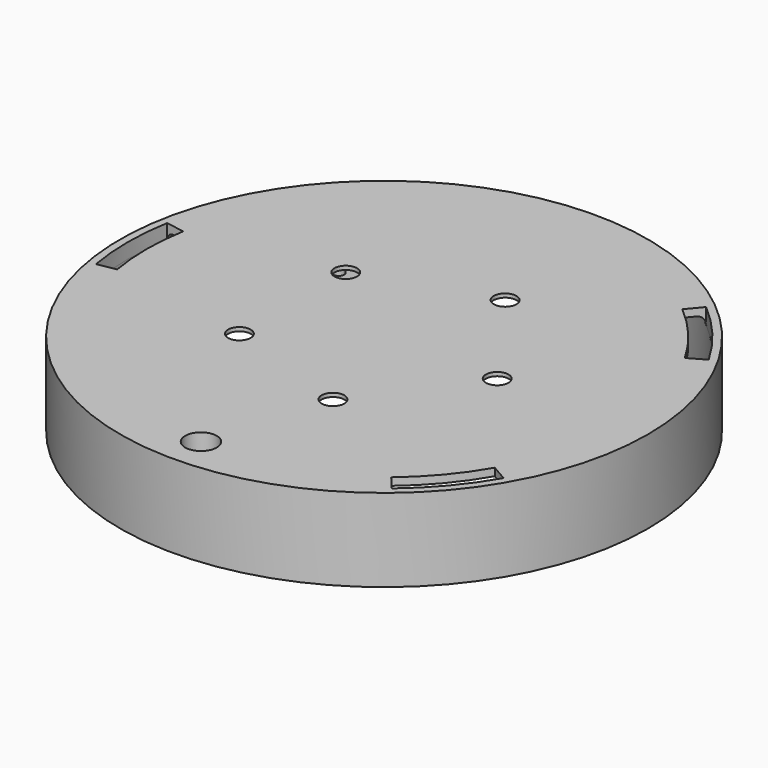
from build123d import *

# Parameters (mm, degrees)
SKETCH_R        = 70
PAD_DEPTH       = 2
SKETCH001_R     = 3
POCKET_DEPTH    = 2.001
SKETCH011_R     = 4.5
POCKET002_DEPTH = 1
SKETCH012_R     = 70
SKETCH012_R_2   = 68
PAD005_DEPTH    = 20
SKETCH030_R     = 3
PAD014_DEPTH    = 4
SKETCH031_R     = 1.4
PAD015_DEPTH    = 6
SKETCH032_R     = 5
PAD016_DEPTH    = 20
SKETCH036_W     = 6.511344
SKETCH036_H     = 3
POCKET005_DEPTH = 5
FILLET_R        = 2
CHAMFER_SIZE    = 0.7
CHAMFER001_SIZE = 1
SKETCH037_R     = 3.95
SKETCH038_R     = 4.2
POCKET006_DEPTH = 5


with BuildPart() as part:
    # Sketch → Pad (new body)
    with BuildSketch(Plane.XY):
        Circle(SKETCH_R)
    extrude(amount=PAD_DEPTH)

    # Sketch001 (on Face3 of Pad) → Pocket (cut, through all)
    with BuildSketch(Plane.XY.offset(2)):
        with Locations((9.27051, 28.531695)):
            Circle(SKETCH001_R)
        with Locations((30, 0)):
            Circle(SKETCH001_R)
        with Locations((9.27051, -28.531695)):
            Circle(SKETCH001_R)
        with Locations((-24.27051, -17.633558)):
            Circle(SKETCH001_R)
        with Locations((-24.27051, 17.633558)):
            Circle(SKETCH001_R)
    extrude(amount=-POCKET_DEPTH, mode=Mode.SUBTRACT)

    # Sketch011 (on Face2 of Pocket) → Pocket002 (cut)
    with BuildSketch(Plane(origin=(0, 0, 0), x_dir=(1, 0, 0), z_dir=(0, 0, -1))):
        with Locations((30, 0)):
            Circle(SKETCH011_R)
        with Locations((9.27051, 28.531695)):
            Circle(SKETCH011_R)
        with Locations((-24.27051, 17.633558)):
            Circle(SKETCH011_R)
        with Locations((-24.27051, -17.633558)):
            Circle(SKETCH011_R)
        with Locations((9.27051, -28.531695)):
            Circle(SKETCH011_R)
    extrude(amount=-POCKET002_DEPTH, mode=Mode.SUBTRACT)

    # Sketch012 (on Face2 of Pocket002) → Pad005 (join)
    with BuildSketch(Plane(origin=(0, 0, 0), x_dir=(1, 0, 0), z_dir=(0, 0, -1))):
        Circle(SKETCH012_R)
        Circle(SKETCH012_R_2, mode=Mode.SUBTRACT)
    extrude(amount=PAD005_DEPTH)

    # Sketch030 → Pad014 (join)
    with BuildSketch(Plane(origin=(0, 0, 1), x_dir=(1, 0, 0), z_dir=(0, 0, -1))):
        with Locations((15.031422, -10.494461)):
            Circle(SKETCH030_R)
        with Locations((-38.454479, -33.066456)):
            Circle(SKETCH030_R)
        with Locations((34.678905, -51.027237)):
            Circle(SKETCH030_R)
        with Locations((4.56173, -60.030899)):
            Circle(SKETCH030_R)
        with Locations((-21.692631, -54.611519)):
            Circle(SKETCH030_R)
    extrude(amount=PAD014_DEPTH)

    # Sketch031 (on Face30 of Pad014) → Pad015 (join)
    with BuildSketch(Plane(origin=(0, 0, -3), x_dir=(1, 0, 0), z_dir=(0, 0, -1))):
        with Locations((-38.454479, -33.066456)):
            Circle(SKETCH031_R)
        with Locations((-21.692631, -54.611519)):
            Circle(SKETCH031_R)
        with Locations((4.56173, -60.030899)):
            Circle(SKETCH031_R)
        with Locations((34.678905, -51.027237)):
            Circle(SKETCH031_R)
        with Locations((15.031422, -10.494461)):
            Circle(SKETCH031_R)
    extrude(amount=PAD015_DEPTH)

    # Sketch032 → Pad016 (join)
    with BuildSketch(Plane(origin=(0, 0, 0), x_dir=(1, 0, 0), z_dir=(0, 0, -1))):
        with Locations((-0.238248, 60.397495)):
            Circle(SKETCH032_R)
    extrude(amount=PAD016_DEPTH)

    # Sketch036 → Pocket005 (cut)
    with BuildSketch(Plane(origin=(-1, -55, 0), x_dir=(-1, 0, 0), z_dir=(0, 1, 0))):
        with Locations((0, -18.5)):
            Rectangle(SKETCH036_W, SKETCH036_H)
    extrude(amount=-POCKET005_DEPTH, mode=Mode.SUBTRACT)

    # Fillet
    fillet_edges = [part.edges().sort_by_distance(p)[0] for p in [
        (-68, 0, 0),
    ]]
    fillet(fillet_edges, radius=FILLET_R)

    # Chamfer
    chamfer_edges = [part.edges().sort_by_distance(p)[0] for p in [
        (25.5, 0, 0),
        (4.77051, -28.531695, 0),
        (-28.77051, 17.633558, 0),
        (4.77051, 28.531695, 0),
        (-28.77051, -17.633558, 0),
    ]]
    chamfer(chamfer_edges, length=CHAMFER_SIZE)

    # Chamfer001
    chamfer001_edges = [part.edges().sort_by_distance(p)[0] for p in [
        (13.631422, 10.494461, -3),
        (-23.092631, 54.611519, -3),
        (-39.854479, 33.066456, -3),
        (3.16173, 60.030899, -3),
        (33.278905, 51.027237, -3),
    ]]
    chamfer(chamfer001_edges, length=CHAMFER001_SIZE)

    # Sketch037 (on Face24 of Chamfer001) → SubtractiveLoft section 0
    with BuildSketch(Plane(origin=(0, 0, -18), x_dir=(1, 0, 0), z_dir=(0, 0, -1))):
        with Locations((-0.238248, 60.397495)):
            Circle(SKETCH037_R)
    # Sketch038 (on Face24 of Chamfer001) → SubtractiveLoft section 1
    with BuildSketch(Plane(origin=(0, 0, 2), x_dir=(1, 0, 0), z_dir=(0, 0, -1))):
        with Locations((-0.238248, 60.397495)):
            Circle(SKETCH038_R)
    loft(mode=Mode.SUBTRACT)

    # Sketch039 (on Face51 of SubtractiveLoft) → Pocket006 (cut)
    with BuildSketch(Plane.XY.offset(2)):
        with BuildLine():
            ThreePointArc((-66.966927, 11.808076), (-68, 0), (-66.966927, -11.808076))
            Line((-66.966927, -11.808076), (-62.042888, -10.939835))
            ThreePointArc((-62.042888, 10.939835), (-63, 0), (-62.042888, -10.939835))
            Line((-66.966927, 11.808076), (-62.042888, 10.939835))
        make_face()
        with BuildLine():
            ThreePointArc((58.889727, 34), (52.091022, 43.709557), (43.709557, 52.091022))
            Line((43.709557, 52.091022), (40.495619, 48.2608))
            ThreePointArc((54.5596, 31.5), (48.2608, 40.495619), (40.495619, 48.2608))
            Line((54.5596, 31.5), (58.889727, 34))
        make_face()
        with BuildLine():
            ThreePointArc((43.709557, -52.091022), (52.091022, -43.709557), (58.889727, -34))
            Line((54.5596, -31.5), (58.889727, -34))
            ThreePointArc((40.495619, -48.2608), (48.2608, -40.495619), (54.5596, -31.5))
            Line((43.709557, -52.091022), (40.495619, -48.2608))
        make_face()
    extrude(amount=-POCKET006_DEPTH, mode=Mode.SUBTRACT)


solid = part.part
